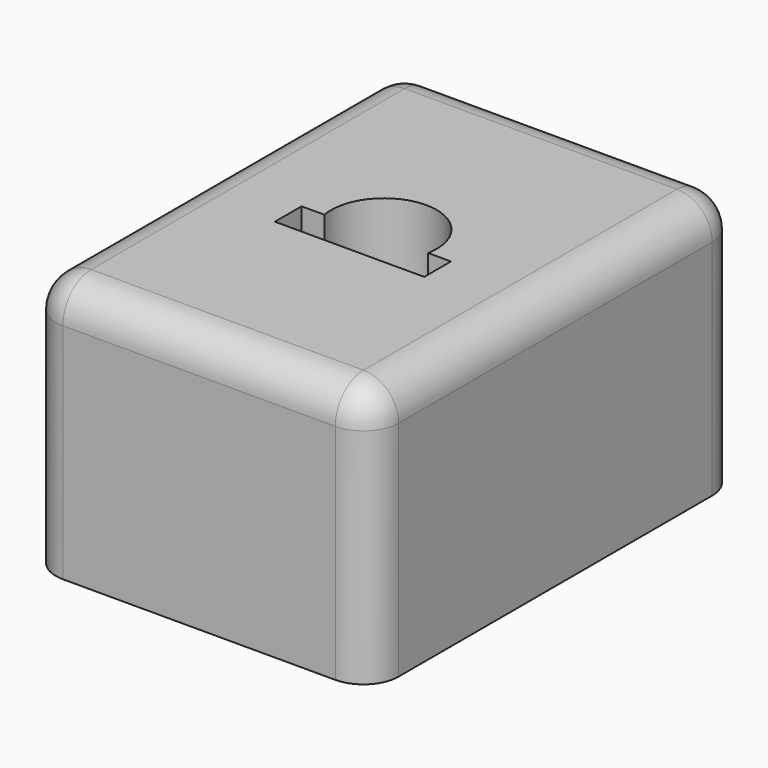
from build123d import *

# Parameters (mm, degrees)
F0_W     = 19.5
F0_H     = 26.3
F1_DEPTH = 14.7
F2_R     = 2
F3_R     = 2
F4_DEPTH = 2


with BuildPart() as f1:
    # F0 (on Top) → F1 (new body)
    with BuildSketch(Plane.XY):
        Rectangle(F0_W, F0_H)
        with BuildLine():
            ThreePointArc((-2.949152, -0.55), (0, 3), (2.949152, -0.55))
            Line((2.949152, -0.55), (4.25, -0.55))
            Line((4.25, -0.55), (4.25, -2.45))
            Line((4.25, -2.45), (1.731329, -2.45))
            Line((1.731329, -2.45), (0, -2.45))
            Line((0, -2.45), (-1.731329, -2.45))
            Line((-1.731329, -2.45), (-4.25, -2.45))
            Line((-4.25, -2.45), (-4.25, -0.55))
            Line((-4.25, -0.55), (-2.949152, -0.55))
        make_face(mode=Mode.SUBTRACT)
    extrude(amount=F1_DEPTH)

    # F2
    f2_edges = [f1.edges().sort_by_distance(p)[0] for p in [
        (-9.75, 13.15, 7.35),
        (-9.75, -13.15, 7.35),
        (9.75, -13.15, 7.35),
        (9.75, 13.15, 7.35),
    ]]
    fillet(f2_edges, radius=F2_R)

    # F3
    f3_edges = [f1.edges().sort_by_distance(p)[0] for p in [
        (-9.75, 0, 14.7),
    ]]
    fillet(f3_edges, radius=F3_R)

    # F0 (on Top) → F4 (join)
    with BuildSketch(Plane.XY):
        with BuildLine():
            Line((4.25, -0.55), (2.949152, -0.55))
            ThreePointArc((2.949152, -0.55), (2.525713, -1.61888), (1.731329, -2.45))
            Line((1.731329, -2.45), (4.25, -2.45))
            Line((4.25, -2.45), (4.25, -0.55))
        make_face()
        with BuildLine():
            ThreePointArc((-1.731329, -2.45), (-2.525713, -1.61888), (-2.949152, -0.55))
            Line((-2.949152, -0.55), (-4.25, -0.55))
            Line((-4.25, -0.55), (-4.25, -2.45))
            Line((-4.25, -2.45), (-1.731329, -2.45))
        make_face()
    extrude(amount=F4_DEPTH)


solid = f1.part
